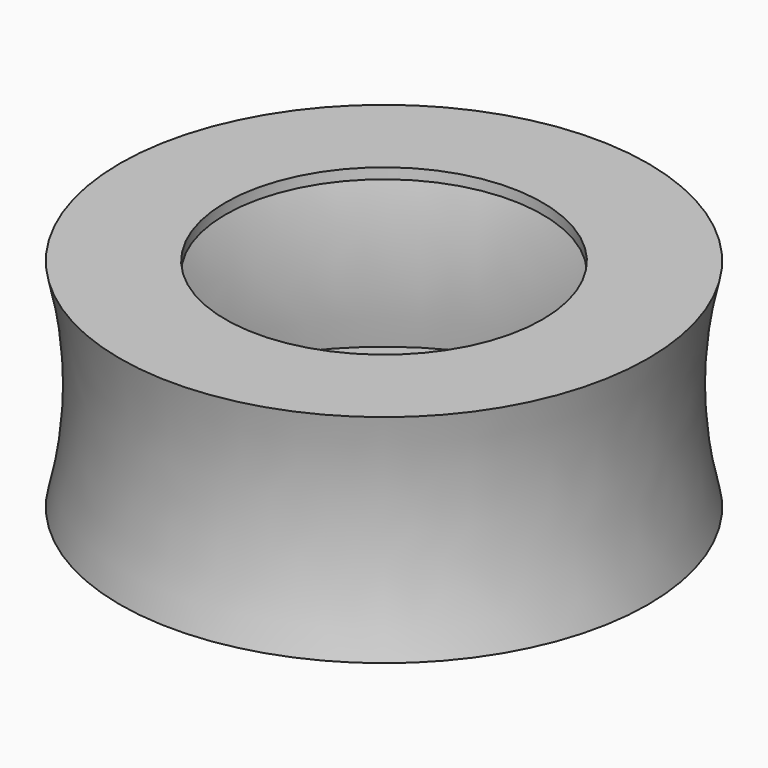
from build123d import *

# Parameters (mm, degrees)
F2_T = -1.27


with BuildPart() as f1:
    # F0 (on Front) → F1 (revolve)
    with BuildSketch(Plane.XZ):
        with BuildLine():
            ThreePointArc((-60.2397024632, 38.6090278625), (-58.6273197833, 25.5915278625), (-60.2397024632, 12.5740278625))
            Line((-60.2397024632, 12.5740278625), (-47.5397024632, 12.5740278625))
            Line((-47.5397024632, 12.5740278625), (-47.5397024632, 38.6090278625))
            Line((-47.5397024632, 38.6090278625), (-60.2397024632, 38.6090278625))
        make_face()
    revolve(axis=Axis((-28.491001968, 0, 25.3042703682), (0, 0, -1)))

    # F2
    f2_openings = [f1.faces().sort_by_distance(p)[0] for p in [
        (-9.442301, 0, 25.591528),
    ]]
    offset(amount=F2_T, openings=f2_openings)


solid = f1.part
